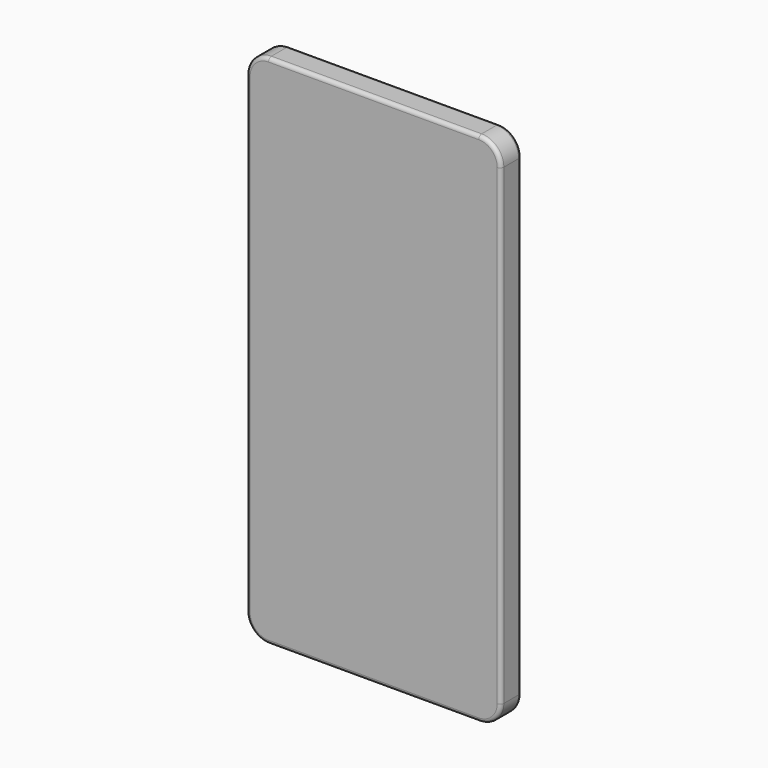
from build123d import *

# Parameters (mm, degrees)
F0_W     = 69
F0_H     = 140
F1_DEPTH = 7
F2_R     = 6
F3_R     = 1


with BuildPart() as f1:
    # F0 (on Front) → F1 (new body)
    with BuildSketch(Plane.XZ):
        Rectangle(F0_W, F0_H)
    extrude(amount=F1_DEPTH)

    # F2
    f2_edges = [f1.edges().sort_by_distance(p)[0] for p in [
        (34.5, -3.5, 70),
        (-34.5, -3.5, 70),
        (34.5, -3.5, -70),
        (-34.5, -3.5, -70),
    ]]
    fillet(f2_edges, radius=F2_R)

    # F3
    f3_edges = [f1.edges().sort_by_distance(p)[0] for p in [
        (0, -7, 70),
        (0, 0, 70),
    ]]
    fillet(f3_edges, radius=F3_R)


solid = f1.part
